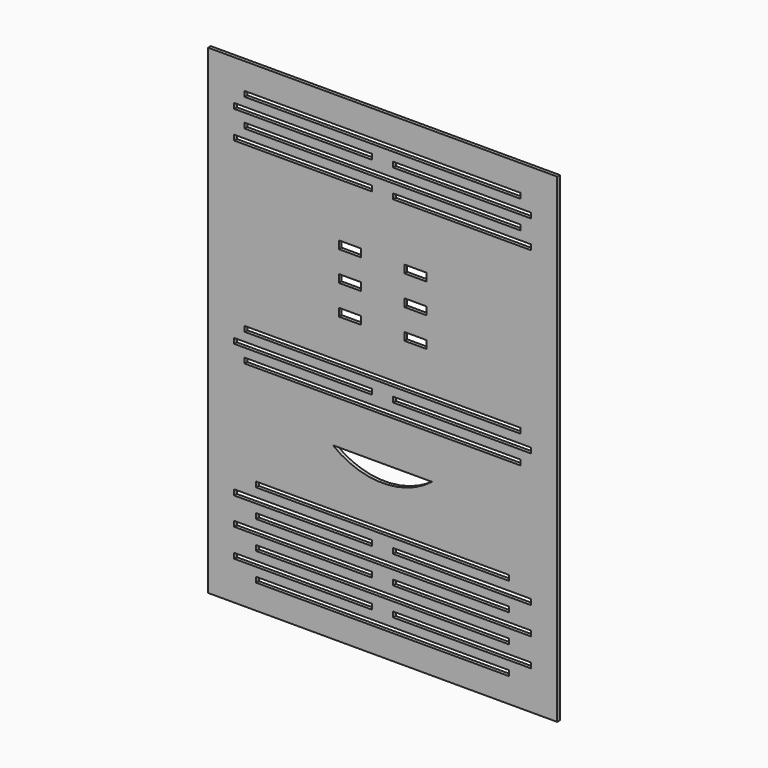
from build123d import *

# Parameters (mm, degrees)
F0_W     = 101.6
F0_H     = 139.7
F0_W_2   = 40.132
F0_H_2   = 1.524
F0_W_3   = 73.66
F0_W_4   = 6.35
F0_H_3   = 2.286
F1_DEPTH = 1


with BuildPart() as f1:
    # F0 (on Front) → F1 (new body)
    with BuildSketch(Plane.XZ):
        Rectangle(F0_W, F0_H)
        with Locations((-23.114, -57.854202)):
            Rectangle(F0_W_2, F0_H_2, mode=Mode.SUBTRACT)
        Polygon((-36.83, -61.156202), (0, -61.156202), (36.83, -61.156202), (36.83, -62.680202), (0, -62.680202), (-36.83, -62.680202), align=None, mode=Mode.SUBTRACT)
        Polygon((-36.829936, -53.036838), (0, -52.968277), (36.829936, -53.036838), (36.827099, -54.560835), (0, -54.49228), (-36.827099, -54.560835), align=None, mode=Mode.SUBTRACT)
        with Locations((-23.114, -49.666277)):
            Rectangle(F0_W_2, F0_H_2, mode=Mode.SUBTRACT)
        Polygon((-43.18, -42.336936), (-43.18, -40.812936), (-3.048, -40.812936), (-3.048, -42.336936), (-43.18, -42.411644), align=None, mode=Mode.SUBTRACT)
        with Locations((0, -45.602277)):
            Rectangle(F0_W_3, F0_H_2, mode=Mode.SUBTRACT)
        with Locations((0, -37.510936)):
            Rectangle(F0_W_3, F0_H_2, mode=Mode.SUBTRACT)
        with BuildLine():
            ThreePointArc((14.359987, -20.186644), (-0.050304, -25.178638), (-14.460596, -20.186644))
            Line((-14.460596, -20.186644), (14.359987, -20.186644))
        make_face(mode=Mode.SUBTRACT)
        with Locations((-23.114, -2.794)):
            Rectangle(F0_W_2, F0_H_2, mode=Mode.SUBTRACT)
        Polygon((40.132, -7.62), (0, -7.62), (-40.132, -7.62), (-40.132, -6.096), (0, -6.096), (40.132, -6.096), align=None, mode=Mode.SUBTRACT)
        with Locations((23.114, -57.854202)):
            Rectangle(F0_W_2, F0_H_2, mode=Mode.SUBTRACT)
        with Locations((23.114, -49.666277)):
            Rectangle(F0_W_2, F0_H_2, mode=Mode.SUBTRACT)
        Polygon((3.048, -40.812936), (43.18, -40.812936), (43.18, -42.411644), (3.048, -42.336936), align=None, mode=Mode.SUBTRACT)
        with Locations((23.114, -2.794)):
            Rectangle(F0_W_2, F0_H_2, mode=Mode.SUBTRACT)
        Polygon((40.132, 0.508), (0, 0.508), (-40.132, 0.508), (-40.132, 2.032), (0, 2.032), (40.132, 2.032), align=None, mode=Mode.SUBTRACT)
        with Locations((-9.525, 14.46316)):
            Rectangle(F0_W_4, F0_H_3, mode=Mode.SUBTRACT)
        with Locations((-9.525, 23.09916)):
            Rectangle(F0_W_4, F0_H_3, mode=Mode.SUBTRACT)
        with Locations((-9.525, 31.73516)):
            Rectangle(F0_W_4, F0_H_3, mode=Mode.SUBTRACT)
        with Locations((-23.114, 49.276)):
            Rectangle(F0_W_2, F0_H_2, mode=Mode.SUBTRACT)
        with Locations((-23.114, 57.404)):
            Rectangle(F0_W_2, F0_H_2, mode=Mode.SUBTRACT)
        Polygon((-40.132, 54.102), (0, 54.102), (40.132, 54.102), (40.132, 52.578), (0, 52.578), (-40.132, 52.578), align=None, mode=Mode.SUBTRACT)
        Polygon((-40.132, 62.23), (0, 62.23), (40.132, 62.23), (40.132, 60.706), (0, 60.706), (-40.132, 60.706), align=None, mode=Mode.SUBTRACT)
        with Locations((9.525, 14.46316)):
            Rectangle(F0_W_4, F0_H_3, mode=Mode.SUBTRACT)
        with Locations((9.525, 23.09916)):
            Rectangle(F0_W_4, F0_H_3, mode=Mode.SUBTRACT)
        with Locations((9.525, 31.73516)):
            Rectangle(F0_W_4, F0_H_3, mode=Mode.SUBTRACT)
        with Locations((23.114, 49.276)):
            Rectangle(F0_W_2, F0_H_2, mode=Mode.SUBTRACT)
        with Locations((23.114, 57.404)):
            Rectangle(F0_W_2, F0_H_2, mode=Mode.SUBTRACT)
    extrude(amount=F1_DEPTH)


solid = f1.part
